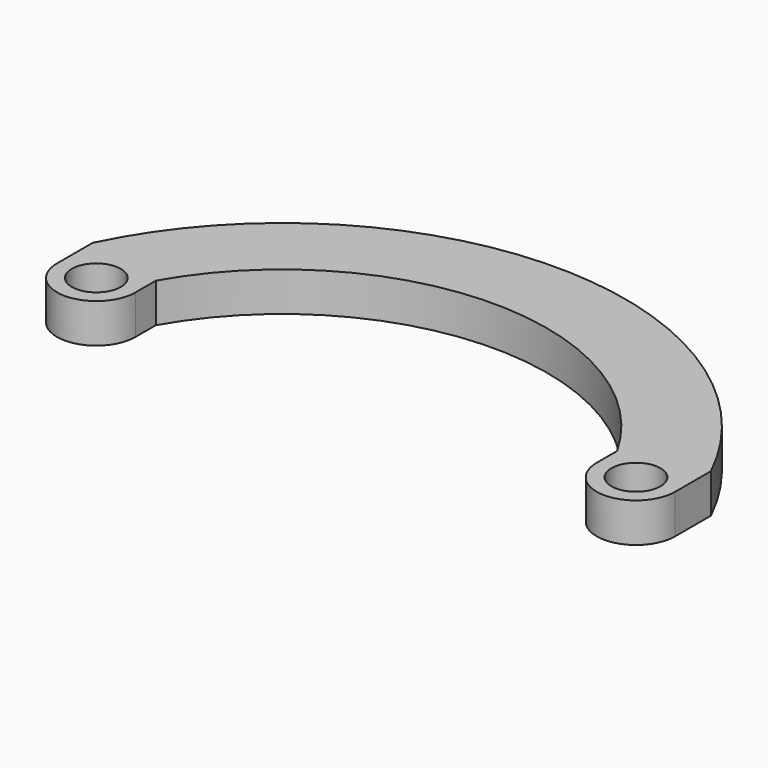
from build123d import *

# Parameters (mm, degrees)
CYLINDER023_R     = 2.5
CYLINDER023_DEPTH = 7.5
CYLINDER022_R     = 2.5
CYLINDER022_DEPTH = 7.5
EXTRUDE001_DEPTH  = 4


with BuildPart() as cilindro018:
    # Cylinder023 → Cylinder023 (new body)
    with BuildSketch(Plane(origin=(27.5, 12, 5), x_dir=(1, 0, 0), z_dir=(0, 0, 1))):
        Circle(CYLINDER023_R)
    extrude(amount=CYLINDER023_DEPTH)


with BuildPart() as fusion011:
    # Cylinder022 → Cylinder022 (new body)
    with BuildSketch(Plane(origin=(-27.5, 12, 5), x_dir=(1, 0, 0), z_dir=(0, 0, 1))):
        Circle(CYLINDER022_R)
    extrude(amount=CYLINDER022_DEPTH)

    # Fusion011: union Cilindro018
    add(cilindro018.part)


with BuildPart() as cut005:
    # Sketch006 (on Face2 of Cylinder008) → Extrude001 (new body)
    with BuildSketch(Plane(origin=(0, 12, 1.5), x_dir=(1, 0, 0), z_dir=(0, 0, 1))):
        with BuildLine():
            ThreePointArc((23.5, 0), (27.5, -4), (31.5, 0))
            Line((31.5, 0), (31.5, 4.555666))
            ThreePointArc((31.5, 4.555666), (0, 24.29952), (-31.5, 4.555666))
            Line((-31.5, 0), (-31.5, 4.555666))
            ThreePointArc((-31.5, 0), (-27.5, -4), (-23.5, 0))
            Line((-23.5, 0), (-23.5, 2.594256))
            ThreePointArc((23.5, 2.594256), (0, 16.29952), (-23.5, 2.594256))
            Line((23.5, 0), (23.5, 2.594256))
        make_face()
    extrude(amount=EXTRUDE001_DEPTH)


with BuildPart() as cut005_1:
    # Extrude001 placement: moved
    add(cut005.part.moved(Location((0, 0, 5))))

    # Cut005: cut Fusion011
    add(fusion011.part, mode=Mode.SUBTRACT)


solid = cut005_1.part
